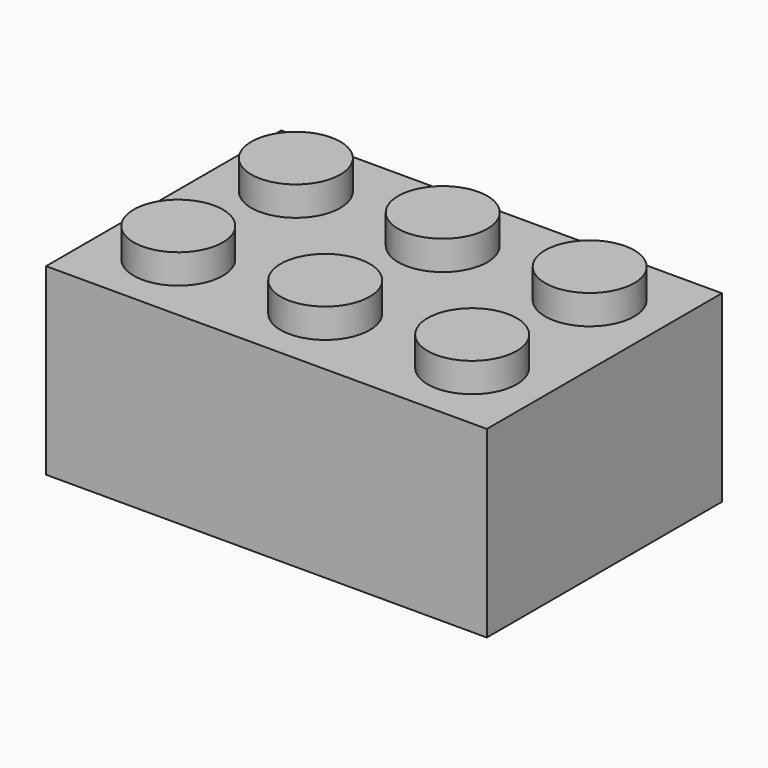
from build123d import *

# Parameters (mm, degrees)
F0_W     = 24
F0_H     = 16
F1_DEPTH = 10
F2_T     = -1.5
F3_R     = 2.425
F4_DEPTH = 1.6
F5_R     = 2.925
F6_DEPTH = 10


with BuildPart() as f1:
    # F0 (on Top) → F1 (new body)
    with BuildSketch(Plane.XY):
        Rectangle(F0_W, F0_H)
    extrude(amount=F1_DEPTH)

    # F2
    f2_openings = [f1.faces().sort_by_distance(p)[0] for p in [
        (0, 0, 0),
    ]]
    offset(amount=F2_T, openings=f2_openings)

    # F3 (on face) → F4 (join)
    with BuildSketch(Plane.XY.offset(10)):
        with Locations((-8, -4)):
            Circle(F3_R)
        with Locations((-8, 4)):
            Circle(F3_R)
        with Locations((0, -4)):
            Circle(F3_R)
        with Locations((0, 4)):
            Circle(F3_R)
        with Locations((8, -4)):
            Circle(F3_R)
        with Locations((8, 4)):
            Circle(F3_R)
    extrude(amount=F4_DEPTH)

    # F5 (on face) → F6 (join)
    with BuildSketch(Plane.XY.offset(10)):
        with Locations((-4, 0)):
            Circle(F5_R)
        with Locations((4, 0)):
            Circle(F5_R)
    extrude(amount=-F6_DEPTH)


solid = f1.part
